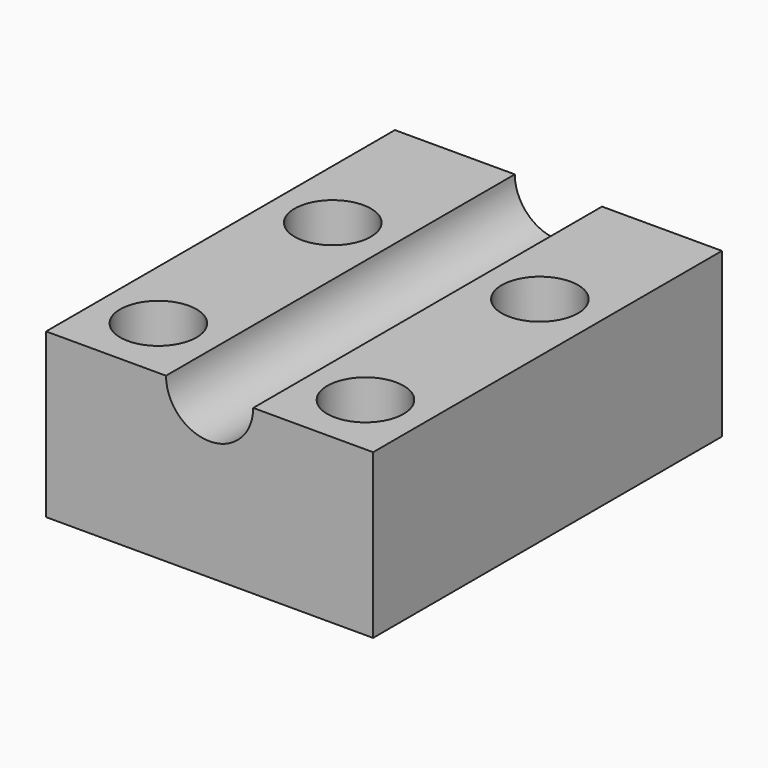
from build123d import *

# Parameters (mm, degrees)
F0_W     = 30
F0_H     = 40
F1_DEPTH = 15
F3_DEPTH = 40
F4_R     = 3.5
F5_DEPTH = 15


with BuildPart() as f1:
    # F0 (on Top) → F1 (new body)
    with BuildSketch(Plane.XY):
        with Locations((0, -20)):
            Rectangle(F0_W, F0_H)
    extrude(amount=F1_DEPTH)

    # F2 (on face) → F3 (cut, through all)
    with BuildSketch(Plane.XZ.offset(40)):
        with BuildLine():
            ThreePointArc((-4, 15), (0, 11), (4, 15))
            Line((4, 15), (-4, 15))
        make_face()
    extrude(amount=-F3_DEPTH, mode=Mode.SUBTRACT)

    # F4 (on face) → F5 (cut, through all)
    with BuildSketch(Plane.XY.offset(15)):
        with Locations((-9.5, -34)):
            Circle(F4_R)
        with Locations((-9.5, -14)):
            Circle(F4_R)
        with Locations((9.5, -14)):
            Circle(F4_R)
        with Locations((9.5, -34)):
            Circle(F4_R)
    extrude(amount=-F5_DEPTH, mode=Mode.SUBTRACT)


solid = f1.part
